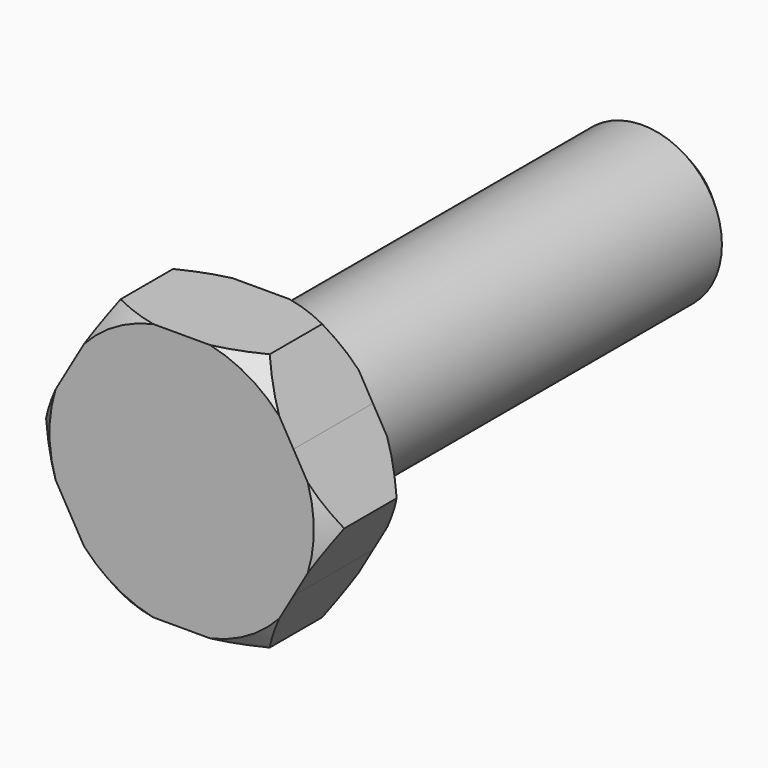
from build123d import *

# Parameters (mm, degrees)
F0_R     = 4
F1_DEPTH = 5
F2_DEPTH = 25
F3_SIZE  = 1


with BuildPart() as f1:
    # F0 (on Front) → F1 (new body)
    with BuildSketch(Plane.XZ):
        with BuildLine():
            ThreePointArc((5.6291651023, -3.2500000386), (6.2785178651, -1.6823238147), (6.5, 0))
            ThreePointArc((6.5, 0), (6.2785178797, 1.6823237603), (5.6291651586, 3.2499999411))
            ThreePointArc((5.6291651586, 3.2499999411), (3.2500000295, 5.6291651076), (0, 6.5))
            ThreePointArc((0, 6.5), (-3.2499999993, 5.629165125), (-5.6291651238, 3.2500000014))
            ThreePointArc((-5.6291651238, 3.2500000014), (-6.5, -6.45e-08), (-5.6291650593, -3.2500001131))
            ThreePointArc((-5.6291650593, -3.2500001131), (-3.2499999434, -5.6291651573), (0, -6.5))
            ThreePointArc((0, -6.5), (3.2499999807, -5.6291651357), (5.6291651023, -3.2500000386))
        make_face()
        Circle(F0_R, mode=Mode.SUBTRACT)
        Circle(F0_R)
        with BuildLine():
            ThreePointArc((5.6291651586, 3.2499999411), (6.2785178797, 1.6823237603), (6.5, 0))
            ThreePointArc((6.5, 0), (6.2785178651, -1.6823238147), (5.6291651023, -3.2500000386))
            Line((5.6291651023, -3.2500000386), (7.5055534995, 0))
            Line((7.5055534995, 0), (5.6291651586, 3.2499999411))
        make_face()
        with BuildLine():
            Line((3.7527767497, -6.5), (5.6291651023, -3.2500000386))
            ThreePointArc((5.6291651023, -3.2500000386), (3.2499999807, -5.6291651357), (0, -6.5))
            Line((0, -6.5), (3.7527767497, -6.5))
        make_face()
        with BuildLine():
            ThreePointArc((0, 6.5), (3.2500000295, 5.6291651076), (5.6291651586, 3.2499999411))
            Line((5.6291651586, 3.2499999411), (3.7527767497, 6.5))
            Line((3.7527767497, 6.5), (0, 6.5))
        make_face()
        with BuildLine():
            ThreePointArc((-5.6291651238, 3.2500000014), (-3.2499999993, 5.629165125), (0, 6.5))
            Line((0, 6.5), (-3.7527767497, 6.5))
            Line((-3.7527767497, 6.5), (-5.6291651238, 3.2500000014))
        make_face()
        with BuildLine():
            ThreePointArc((-5.6291650593, -3.2500001131), (-6.5, -6.45e-08), (-5.6291651238, 3.2500000014))
            Line((-5.6291651238, 3.2500000014), (-7.5055534995, 0))
            Line((-7.5055534995, 0), (-5.6291650593, -3.2500001131))
        make_face()
        with BuildLine():
            Line((-3.7527767497, -6.5), (0, -6.5))
            ThreePointArc((0, -6.5), (-3.2499999434, -5.6291651573), (-5.6291650593, -3.2500001131))
            Line((-5.6291650593, -3.2500001131), (-3.7527767497, -6.5))
        make_face()
    extrude(amount=F1_DEPTH)

    # F0 (on Front) → F2 (join)
    with BuildSketch(Plane.XZ):
        Circle(F0_R)
    extrude(amount=-F2_DEPTH)

    # F3
    f3_edges = [f1.edges().sort_by_distance(p)[0] for p in [
        (-4, 25, 0),
    ]]
    chamfer(f3_edges, length=F3_SIZE)

    # F4 (on Right) → F5 (revolve, cut)
    with BuildSketch(Plane.YZ):
        Polygon((-7.5355339059, 9.5203164965), (-7.5355339059, 4.1202170542), (-4, 7.6557509601), (-2.5, 7.6557509601), (-1, 7.6557509601), (2.5355339059, 4.1202170542), (2.5379077522, 9.5203164965), align=None)
    revolve(axis=Axis((0, 10, 0), (0, 1, 0)), mode=Mode.SUBTRACT)


solid = f1.part
